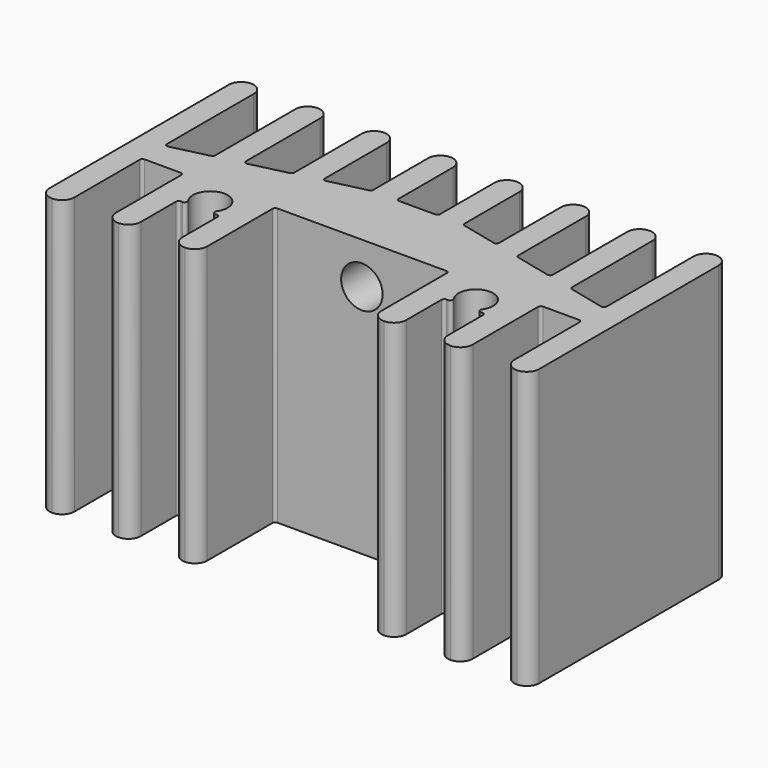
from build123d import *

# Parameters (mm, degrees)
F1_DEPTH = 20
F2_R     = 1.5
F3_DEPTH = 5.2010001


with BuildPart() as f1:
    # F0 (on Top) → F1 (new body)
    with BuildSketch(Plane.XY):
        with BuildLine():
            Line((-17.7, 10.1), (-17.7, 0))
            Line((-17.7, 0), (-17.7, -6.1))
            ThreePointArc((-17.7, -6.1), (-17.4363961031, -6.7363961031), (-16.8, -7))
            ThreePointArc((-16.8, -7), (-16.1636038969, -6.7363961031), (-15.9, -6.1))
            Line((-15.9, -6.1), (-15.9, -2.9281131564))
            Line((-15.9, -2.9281131564), (-15.9, -0.2))
            ThreePointArc((-15.9, -0.2), (-15.8414213562, -0.0585786438), (-15.7, 0))
            Line((-15.7, 0), (-13.1, 0))
            ThreePointArc((-13.1, 0), (-12.9585786438, -0.0585786438), (-12.9, -0.2))
            Line((-12.9, -0.2), (-12.9, -2.9281131564))
            Line((-12.9, -2.9281131564), (-12.9, -6.1))
            ThreePointArc((-12.9, -6.1), (-12.6363961031, -6.7363961031), (-12, -7))
            ThreePointArc((-12, -7), (-11.3636038969, -6.7363961031), (-11.1, -6.1))
            Line((-11.1, -6.1), (-11.1, -2.9281131564))
            ThreePointArc((-11.1, -2.9281131564), (-11.0414213562, -2.7866918002), (-10.9, -2.7281131564))
            Line((-10.9, -2.7281131564), (-10.7902640884, -2.7281131564))
            ThreePointArc((-10.7902640884, -2.7281131564), (-10.6130008648, -2.6207292974), (-10.6260897314, -2.4138906521))
            ThreePointArc((-10.6260897314, -2.4138906521), (-9.6, -0.45), (-8.5739102686, -2.4138906521))
            ThreePointArc((-8.5739102686, -2.4138906521), (-8.5869991352, -2.6207292974), (-8.4097359116, -2.7281131564))
            Line((-8.4097359116, -2.7281131564), (-8.3, -2.7281131564))
            ThreePointArc((-8.3, -2.7281131564), (-8.1585786438, -2.7866918002), (-8.1, -2.9281131564))
            Line((-8.1, -2.9281131564), (-8.1, -6.1))
            ThreePointArc((-8.1, -6.1), (-7.8363961031, -6.7363961031), (-7.2, -7))
            ThreePointArc((-7.2, -7), (-6.5636038969, -6.7363961031), (-6.3, -6.1))
            Line((-6.3, -6.1), (-6.3, -0.2))
            ThreePointArc((-6.3, -0.2), (-6.2414213562, -0.0585786438), (-6.1, 0))
            Line((-6.1, 0), (6.1, 0))
            ThreePointArc((6.1, 0), (6.2414213562, -0.0585786438), (6.3, -0.2))
            Line((6.3, -0.2), (6.3, -6.1))
            ThreePointArc((6.3, -6.1), (6.5636038969, -6.7363961031), (7.2, -7))
            ThreePointArc((7.2, -7), (7.8363961031, -6.7363961031), (8.1, -6.1))
            Line((8.1, -6.1), (8.1, -2.9281131564))
            ThreePointArc((8.1, -2.9281131564), (8.1585786438, -2.7866918002), (8.3, -2.7281131564))
            Line((8.3, -2.7281131564), (8.4097359116, -2.7281131564))
            ThreePointArc((8.4097359116, -2.7281131564), (8.5869991352, -2.6207292974), (8.5739102686, -2.4138906521))
            ThreePointArc((8.5739102686, -2.4138906521), (9.6, -0.45), (10.6260897314, -2.4138906521))
            ThreePointArc((10.6260897314, -2.4138906521), (10.6130008648, -2.6207292974), (10.7902640884, -2.7281131564))
            Line((10.7902640884, -2.7281131564), (10.9, -2.7281131564))
            ThreePointArc((10.9, -2.7281131564), (11.0414213562, -2.7866918002), (11.1, -2.9281131564))
            Line((11.1, -2.9281131564), (11.1, -6.1))
            ThreePointArc((11.1, -6.1), (11.3636038969, -6.7363961031), (12, -7))
            ThreePointArc((12, -7), (12.6363961031, -6.7363961031), (12.9, -6.1))
            Line((12.9, -6.1), (12.9, -2.9281131564))
            Line((12.9, -2.9281131564), (12.9, -0.2))
            ThreePointArc((12.9, -0.2), (12.9585786438, -0.0585786438), (13.1, 0))
            Line((13.1, 0), (15.7, 0))
            ThreePointArc((15.7, 0), (15.8414213562, -0.0585786438), (15.9, -0.2))
            Line((15.9, -0.2), (15.9, -2.9281131564))
            Line((15.9, -2.9281131564), (15.9, -6.1))
            ThreePointArc((15.9, -6.1), (16.1636038969, -6.7363961031), (16.8, -7))
            ThreePointArc((16.8, -7), (17.4363961031, -6.7363961031), (17.7, -6.1))
            Line((17.7, -6.1), (17.7, 0))
            Line((17.7, 0), (17.7, 10.1))
            ThreePointArc((17.7, 10.1), (17.4363961031, 10.7363961031), (16.8, 11))
            ThreePointArc((16.8, 11), (16.1636038969, 10.7363961031), (15.9, 10.1))
            Line((15.9, 10.1), (15.9, 2.2532098395))
            ThreePointArc((15.9, 2.2532098395), (15.8239660819, 2.096262681), (15.6536758945, 2.0586485965))
            Line((15.6536758945, 2.0586485965), (13.0536758945, 2.6776962156))
            ThreePointArc((13.0536758945, 2.6776962156), (12.9430528415, 2.7482913767), (12.9, 2.8722574585))
            Line((12.9, 2.8722574585), (12.9, 10.1))
            ThreePointArc((12.9, 10.1), (12.6363961031, 10.7363961031), (12, 11))
            ThreePointArc((12, 11), (11.3636038969, 10.7363961031), (11.1, 10.1))
            Line((11.1, 10.1), (11.1, 3.3960669823))
            ThreePointArc((11.1, 3.3960669823), (11.0239660819, 3.2391198239), (10.8536758945, 3.2015057394))
            Line((10.8536758945, 3.2015057394), (8.2536758945, 3.8205533584))
            ThreePointArc((8.2536758945, 3.8205533584), (8.1430528415, 3.8911485195), (8.1, 4.0151146014))
            Line((8.1, 4.0151146014), (8.1, 10.1))
            ThreePointArc((8.1, 10.1), (7.8363961031, 10.7363961031), (7.2, 11))
            ThreePointArc((7.2, 11), (6.5636038969, 10.7363961031), (6.3, 10.1))
            Line((6.3, 10.1), (6.3, 4.5389241252))
            ThreePointArc((6.3, 4.5389241252), (6.2239660819, 4.3819769667), (6.0536758945, 4.3443628823))
            Line((6.0536758945, 4.3443628823), (3.4536758945, 4.9634105013))
            ThreePointArc((3.4536758945, 4.9634105013), (3.3430528415, 5.0340056624), (3.3, 5.1579717442))
            Line((3.3, 5.1579717442), (3.3, 10.1))
            ThreePointArc((3.3, 10.1), (3.0363961031, 10.7363961031), (2.4, 11))
            ThreePointArc((2.4, 11), (1.7636038969, 10.7363961031), (1.5, 10.1))
            Line((1.5, 10.1), (1.5, 5.2))
            ThreePointArc((1.5, 5.2), (1.4414213562, 5.0585786438), (1.3, 5))
            Line((1.3, 5), (-1.3, 5))
            ThreePointArc((-1.3, 5), (-1.4414213562, 5.0585786438), (-1.5, 5.2))
            Line((-1.5, 5.2), (-1.5, 10.1))
            ThreePointArc((-1.5, 10.1), (-1.7636038969, 10.7363961031), (-2.4, 11))
            ThreePointArc((-2.4, 11), (-3.0363961031, 10.7363961031), (-3.3, 10.1))
            Line((-3.3, 10.1), (-3.3, 5.1579717442))
            ThreePointArc((-3.3, 5.1579717442), (-3.3430528415, 5.0340056624), (-3.4536758945, 4.9634105013))
            Line((-3.4536758945, 4.9634105013), (-6.0536758945, 4.3443628823))
            ThreePointArc((-6.0536758945, 4.3443628823), (-6.2239660819, 4.3819769667), (-6.3, 4.5389241252))
            Line((-6.3, 4.5389241252), (-6.3, 10.1))
            ThreePointArc((-6.3, 10.1), (-6.5636038969, 10.7363961031), (-7.2, 11))
            ThreePointArc((-7.2, 11), (-7.8363961031, 10.7363961031), (-8.1, 10.1))
            Line((-8.1, 10.1), (-8.1, 4.0151146014))
            ThreePointArc((-8.1, 4.0151146014), (-8.1430528415, 3.8911485195), (-8.2536758945, 3.8205533584))
            Line((-8.2536758945, 3.8205533584), (-10.8536758945, 3.2015057394))
            ThreePointArc((-10.8536758945, 3.2015057394), (-11.0239660819, 3.2391198239), (-11.1, 3.3960669823))
            Line((-11.1, 3.3960669823), (-11.1, 10.1))
            ThreePointArc((-11.1, 10.1), (-11.3636038969, 10.7363961031), (-12, 11))
            ThreePointArc((-12, 11), (-12.6363961031, 10.7363961031), (-12.9, 10.1))
            Line((-12.9, 10.1), (-12.9, 2.8722574585))
            ThreePointArc((-12.9, 2.8722574585), (-12.9430528415, 2.7482913767), (-13.0536758945, 2.6776962156))
            Line((-13.0536758945, 2.6776962156), (-15.6536758945, 2.0586485965))
            ThreePointArc((-15.6536758945, 2.0586485965), (-15.8239660819, 2.096262681), (-15.9, 2.2532098395))
            Line((-15.9, 2.2532098395), (-15.9, 10.1))
            ThreePointArc((-15.9, 10.1), (-16.1636038969, 10.7363961031), (-16.8, 11))
            ThreePointArc((-16.8, 11), (-17.4363961031, 10.7363961031), (-17.7, 10.1))
        make_face()
    extrude(amount=F1_DEPTH)

    # F2 (on face) → F3 (cut, through all)
    with BuildSketch(Plane.XZ):
        with Locations((0, 17)):
            Circle(F2_R)
    extrude(amount=-F3_DEPTH, mode=Mode.SUBTRACT)


solid = f1.part
